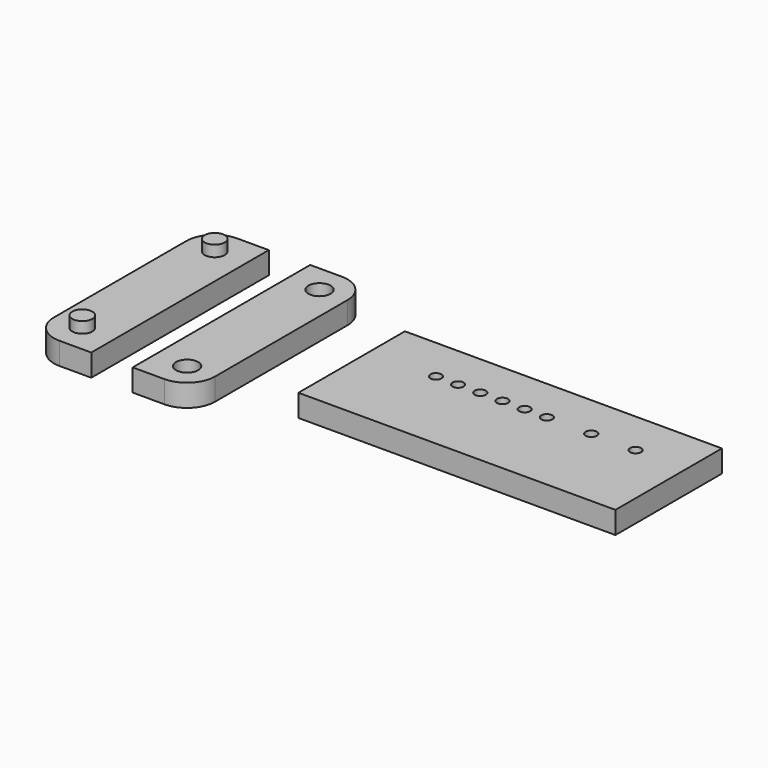
from build123d import *

# Parameters (mm, degrees)
F0_R     = 2.25
F1_DEPTH = 5.0038
F0_R_2   = 2.5
F0_W     = 71.4502
F0_H     = 30
F0_R_3   = 1.25
F2_R     = 2.25
F3_DEPTH = 2.5
F2_R_2   = 2.5
F4_DEPTH = 3


with BuildPart() as f1:
    # F0 (on Top) → F1 (new body)
    with BuildSketch(Plane.XY):
        with BuildLine():
            Line((-76.39965415, 80.8836642653), (-83.5455836892, 80.8836642653))
            ThreePointArc((-83.5455836892, 80.8836642653), (-88.0357117497, 79.0237923258), (-89.8955836892, 74.5336642653))
            Line((-89.8955836892, 74.5336642653), (-89.8955836892, 37.2336642653))
            ThreePointArc((-89.8955836892, 37.2336642653), (-88.0357117497, 32.7435362047), (-83.5455836892, 30.8836642653))
            Line((-83.5455836892, 30.8836642653), (-76.39965415, 30.8836642653))
            Line((-76.39965415, 30.8836642653), (-76.39965415, 80.8836642653))
        make_face()
        with Locations((-83.5455836892, 37.2336642653)):
            Circle(F0_R, mode=Mode.SUBTRACT)
        with Locations((-83.5455836892, 74.5336642653)):
            Circle(F0_R, mode=Mode.SUBTRACT)
        with Locations((-83.5455836892, 74.5336642653)):
            Circle(F0_R)
        with Locations((-83.5455836892, 37.2336642653)):
            Circle(F0_R)
    extrude(amount=F1_DEPTH)


with BuildPart() as f1b:
    # F0 (on Top) → F1, piece 2 (new body)
    with BuildSketch(Plane.XY):
        with BuildLine():
            Line((-67.1735417016, 31.0120239854), (-60.0276121624, 31.0120239854))
            ThreePointArc((-60.0276121624, 31.0120239854), (-55.5374841019, 32.8718959249), (-53.6776121624, 37.3620239854))
            Line((-53.6776121624, 37.3620239854), (-53.6776121624, 74.6620239854))
            ThreePointArc((-53.6776121624, 74.6620239854), (-55.5374841019, 79.1521520459), (-60.0276121624, 81.0120239854))
            Line((-60.0276121624, 81.0120239854), (-67.1735417016, 81.0120239854))
            Line((-67.1735417016, 81.0120239854), (-67.1735417016, 31.0120239854))
        make_face()
        with Locations((-60.0276121624, 37.3620239854)):
            Circle(F0_R_2, mode=Mode.SUBTRACT)
        with Locations((-60.0276121624, 74.6620239854)):
            Circle(F0_R_2, mode=Mode.SUBTRACT)
        with Locations((-60.0276121624, 37.3620239854)):
            Circle(F0_R_2)
        with Locations((-60.0276121624, 74.6620239854)):
            Circle(F0_R_2)
    extrude(amount=F1_DEPTH)

    # F2 (on face) → F4 (cut)
    with BuildSketch(Plane.XY.offset(5.0038)):
        with Locations((-59.9912900273, 74.6725738212)):
            Circle(F2_R_2)
        with Locations((-59.9912900273, 37.3725738212)):
            Circle(F2_R_2)
    extrude(amount=-F4_DEPTH, mode=Mode.SUBTRACT)


with BuildPart() as f1c:
    # F0 (on Top) → F1, piece 3 (new body)
    with BuildSketch(Plane.XY):
        with Locations((-2.6336273854, 56.6815690561)):
            Rectangle(F0_W, F0_H)
        with Locations((-23.3587273854, 61.6815690561)):
            Circle(F0_R_3, mode=Mode.SUBTRACT)
        with Locations((-18.3587273854, 61.6815690561)):
            Circle(F0_R_3, mode=Mode.SUBTRACT)
        with Locations((-13.3587273854, 61.6815690561)):
            Circle(F0_R_3, mode=Mode.SUBTRACT)
        with Locations((-8.3587273854, 61.6815690561)):
            Circle(F0_R_3, mode=Mode.SUBTRACT)
        with Locations((-3.3587273854, 61.6815690561)):
            Circle(F0_R_3, mode=Mode.SUBTRACT)
        with Locations((1.6412726146, 61.6815690561)):
            Circle(F0_R_3, mode=Mode.SUBTRACT)
        with Locations((11.6412726146, 61.6815690561)):
            Circle(F0_R_3, mode=Mode.SUBTRACT)
        with Locations((21.6412726146, 61.6815690561)):
            Circle(F0_R_3, mode=Mode.SUBTRACT)
    extrude(amount=F1_DEPTH)


with BuildPart() as f3:
    # F2 (on face) → F3 (new body)
    with BuildSketch(Plane.XY.offset(5.0038)):
        with Locations((-83.5092615541, 74.5442141011)):
            Circle(F2_R)
    extrude(amount=F3_DEPTH)


with BuildPart() as f3b:
    # F2 (on face) → F3, piece 2 (new body)
    with BuildSketch(Plane.XY.offset(5.0038)):
        with Locations((-83.5092615541, 37.2442141011)):
            Circle(F2_R)
    extrude(amount=F3_DEPTH)


solid = Compound([f1.part, f1b.part, f1c.part, f3.part, f3b.part])
